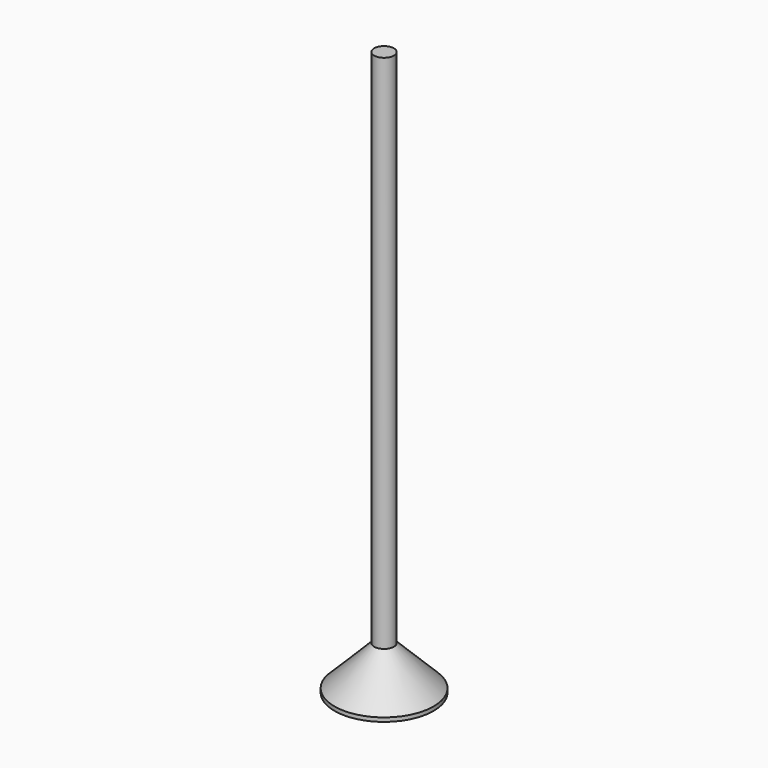
from build123d import *

# Parameters (mm, degrees)
F0_R      = 6.35
F1_DEPTH  = 5.588
F2_SIZE   = 5.08
F1_FACE_R = 1.27
F3_DEPTH  = 66.675


with BuildPart() as f1:
    # F0 (on Top) → F1 (new body)
    with BuildSketch(Plane.XY):
        Circle(F0_R)
    extrude(amount=F1_DEPTH)

    # F2
    f2_edges = [f1.edges().sort_by_distance(p)[0] for p in [
        (-6.35, 0, 5.588),
    ]]
    chamfer(f2_edges, length=F2_SIZE)

    # F1_face (on face) → F3 (join)
    with BuildSketch(Plane.XY.offset(5.588)):
        Circle(F1_FACE_R)
    extrude(amount=F3_DEPTH)


solid = f1.part
